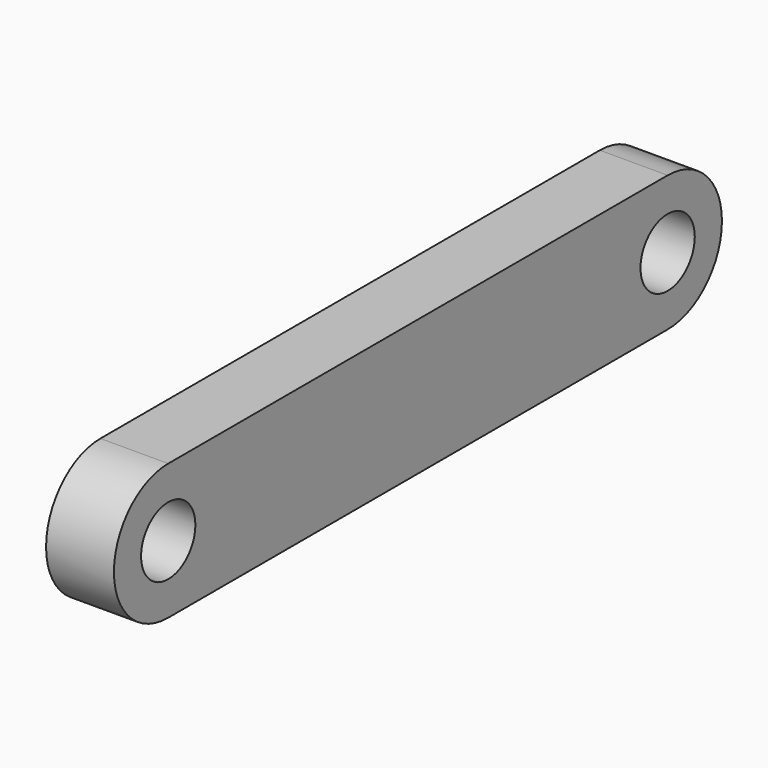
from build123d import *

# Parameters (mm, degrees)
F0_R     = 3.175
F1_DEPTH = 6.35


with BuildPart() as f1:
    # F0 (on Right) → F1 (new body)
    with BuildSketch(Plane.YZ):
        with BuildLine():
            Line((33.782002, 6.35), (-24.637998, 6.35))
            ThreePointArc((-24.637998, 6.35), (-30.987998, 0), (-24.637998, -6.35))
            Line((-24.637998, -6.35), (33.782002, -6.35))
            ThreePointArc((33.782002, -6.35), (40.132002, 0), (33.782002, 6.35))
        make_face()
        with Locations((-24.637998, 0)):
            Circle(F0_R, mode=Mode.SUBTRACT)
        with Locations((33.782002, 0)):
            Circle(F0_R, mode=Mode.SUBTRACT)
    extrude(amount=F1_DEPTH)


solid = f1.part
